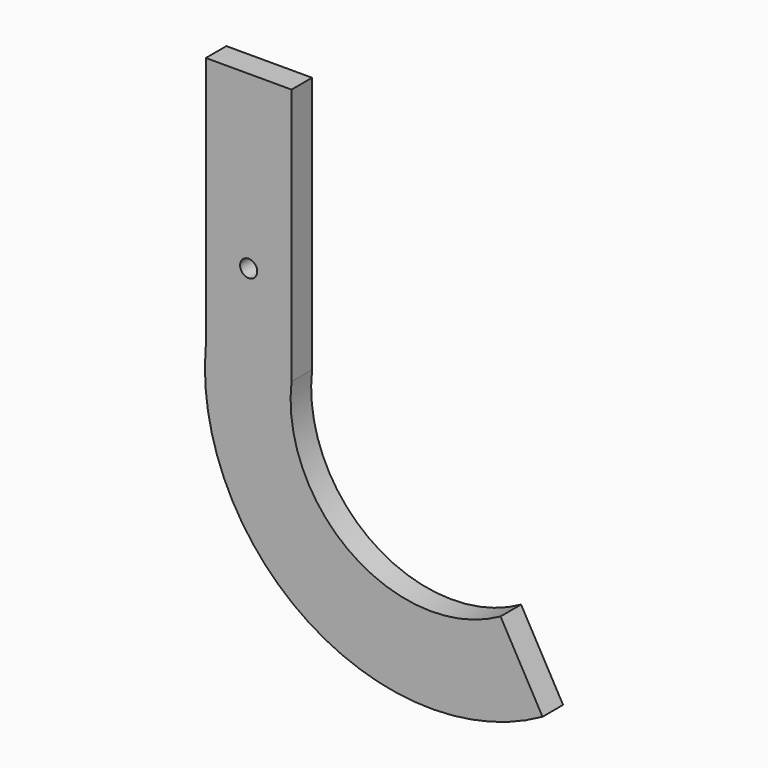
from build123d import *

# Parameters (mm, degrees)
F1_DEPTH = 7.62
F3_D     = 5.08


with BuildPart() as f1:
    # F0 (on Front) → F1 (new body)
    with BuildSketch(Plane.XZ):
        with BuildLine():
            ThreePointArc((53.286768, -21.034017), (9.713758, -19.422437), (-8.682193, 20.109746))
            Line((-8.682193, 20.109746), (-34.082193, 20.109746))
            Line((-34.082193, 20.109746), (-34.082193, 21.38293))
            ThreePointArc((-34.082193, 21.38293), (-3.66046, -41.025575), (65.734673, -43.174696))
            Line((65.734673, -43.174696), (53.286768, -21.034017))
        make_face()
        Polygon((-34.082193, 20.109746), (-8.682193, 20.109746), (-8.682193, 96.309746), (-34.082193, 96.309746), (-34.082193, 21.38293), align=None)
    extrude(amount=F1_DEPTH)

    # F3 (through all)
    with Locations(Plane.XZ.offset(7.62)):
        with Locations((-21.382193, 45.509746)):
            Hole(F3_D / 2)


solid = f1.part
